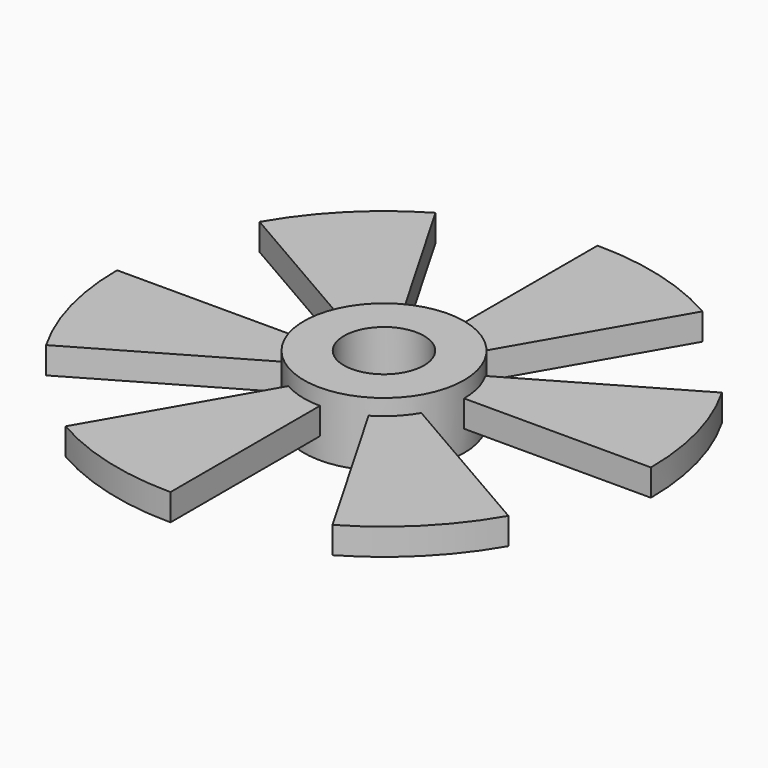
from build123d import *

# Parameters (mm, degrees)
F0_R          = 30
F0_R_2        = 15
F1_DEPTH      = 16
F1_DEPTH_BACK = 8
F3_DEPTH      = 10
F5_COUNT      = 6


with BuildPart() as f1:
    # F0 (on Top) → F1 (new body, two sides)
    with BuildSketch(Plane.XY) as f1_sk:
        Circle(F0_R)
        Circle(F0_R_2, mode=Mode.SUBTRACT)
    extrude(amount=F1_DEPTH)
    extrude(f1_sk.sketch, amount=-F1_DEPTH_BACK)

    # F2 (on Top) → F3 (join)
    with BuildSketch(Plane.XY):
        with BuildLine():
            Line((15, 25.9807621135), (50, 86.6025403784))
            ThreePointArc((50, 86.6025403784), (25.8819045103, 96.5925826289), (0, 100))
            Line((0, 100), (0, 30))
            ThreePointArc((0, 30), (7.7645713531, 28.9777747887), (15, 25.9807621135))
        make_face()
    extrude(amount=F3_DEPTH)

    # F5: F1 ×6 about axis
    f5_axis = Axis((0, 0, 6.2121879309), (0, 0, -1))


with BuildPart() as f1_1:
    add(f1.part)
    for i in range(1, F5_COUNT):
        add(f1.part.rotate(f5_axis, i * 360 / F5_COUNT))


solid = f1_1.part
